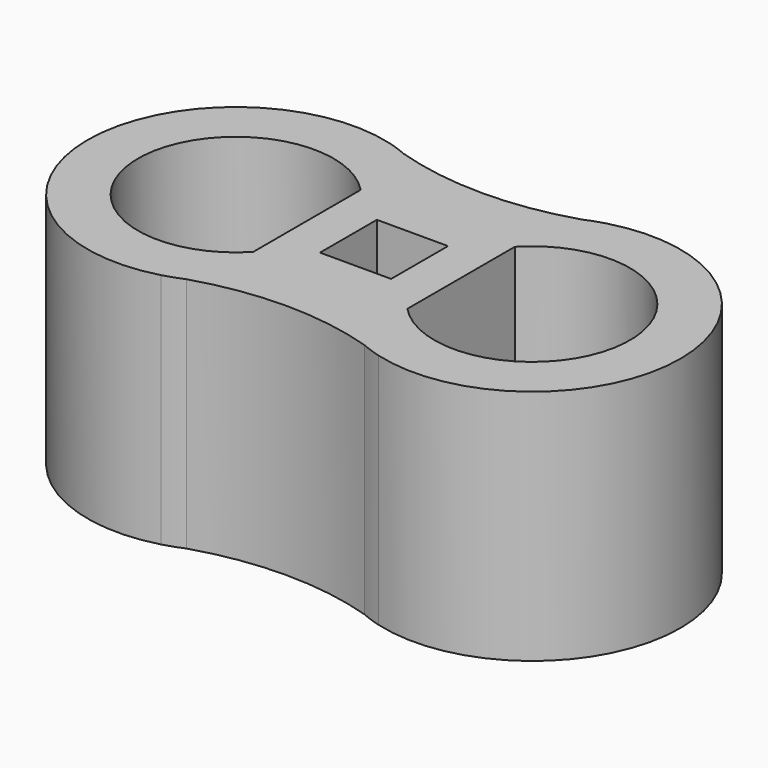
from build123d import *

# Parameters (mm, degrees)
F0_W     = 12
F0_H     = 12
F1_DEPTH = 40


with BuildPart() as f1:
    # F0 (on Top) → F1 (new body)
    with BuildSketch(Plane.XY):
        with BuildLine():
            ThreePointArc((-18.337186, 24.095786), (-16.687389, 23.478766), (-15.016882, 22.920239))
            ThreePointArc((-15.016882, 22.920239), (-16.656306, 23.56656), (-18.337186, 24.095786))
        make_face()
        with BuildLine():
            ThreePointArc((15.016882, 22.920239), (0, 20.611887), (-15.016882, 22.920239))
            ThreePointArc((-15.016882, 22.920239), (-16.687389, 23.478766), (-18.337186, 24.095786))
            ThreePointArc((-18.337186, 24.095786), (-50, 0), (-18.337186, -24.095786))
            ThreePointArc((-18.337186, -24.095786), (-16.687389, -23.478766), (-15.016882, -22.920239))
            ThreePointArc((-15.016882, -22.920239), (0, -20.611887), (15.016882, -22.920239))
            ThreePointArc((15.016882, -22.920239), (16.687389, -23.478766), (18.337186, -24.095786))
            ThreePointArc((18.337186, -24.095786), (50, 0), (18.337186, 24.095786))
            ThreePointArc((18.337186, 24.095786), (16.687389, 23.478766), (15.016882, 22.920239))
        make_face()
        with BuildLine():
            ThreePointArc((-13, -11.324752), (-41.5, 0), (-13, 11.324752))
            Line((-13, 11.324752), (-13, -11.324752))
        make_face(mode=Mode.SUBTRACT)
        Rectangle(F0_W, F0_H, mode=Mode.SUBTRACT)
        with BuildLine():
            Line((13, -11.324752), (13, 11.324752))
            ThreePointArc((13, 11.324752), (41.5, 0), (13, -11.324752))
        make_face(mode=Mode.SUBTRACT)
        with BuildLine():
            ThreePointArc((18.337186, 24.095786), (16.656306, 23.56656), (15.016882, 22.920239))
            ThreePointArc((15.016882, 22.920239), (16.687389, 23.478766), (18.337186, 24.095786))
        make_face()
        with BuildLine():
            ThreePointArc((-15.016882, -22.920239), (-16.687389, -23.478766), (-18.337186, -24.095786))
            ThreePointArc((-18.337186, -24.095786), (-16.656306, -23.56656), (-15.016882, -22.920239))
        make_face()
        with BuildLine():
            ThreePointArc((15.016882, -22.920239), (16.656306, -23.56656), (18.337186, -24.095786))
            ThreePointArc((18.337186, -24.095786), (16.687389, -23.478766), (15.016882, -22.920239))
        make_face()
    extrude(amount=F1_DEPTH)


solid = f1.part
